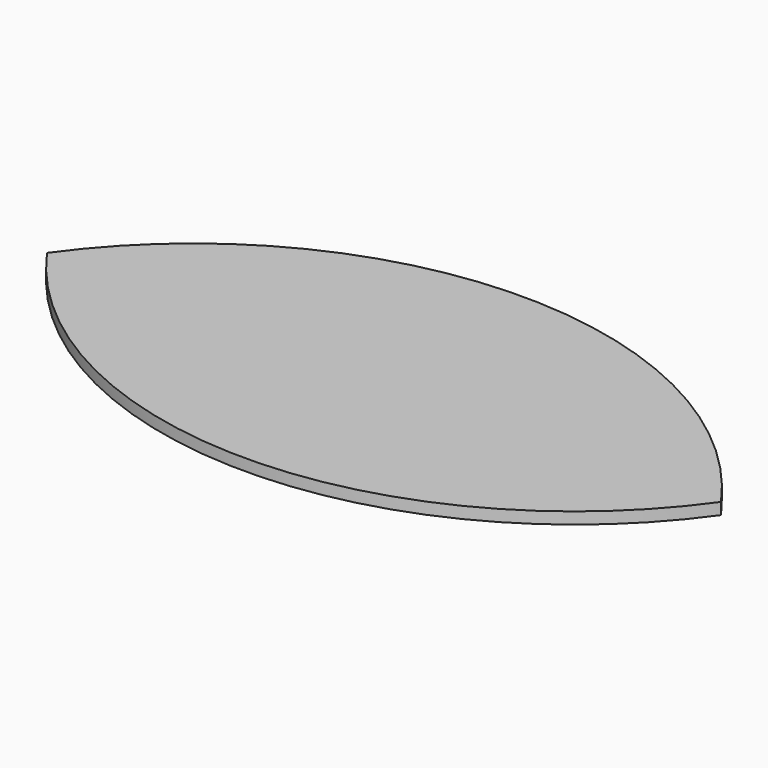
from build123d import *

# Parameters (mm, degrees)
CYLINDER068_R     = 71
CYLINDER068_DEPTH = 2
CYLINDER069_R     = 71
CYLINDER069_DEPTH = 2


with BuildPart() as cylinder:
    # Cylinder068 → Cylinder068 (new body)
    with BuildSketch(Plane(origin=(105, 148, 35), x_dir=(1, 0, 0), z_dir=(0, 0, 1))):
        Circle(CYLINDER068_R)
    extrude(amount=CYLINDER068_DEPTH)


with BuildPart() as obj1:
    # Cylinder069 → Cylinder069 (new body)
    with BuildSketch(Plane(origin=(105, 66, 35), x_dir=(1, 0, 0), z_dir=(0, 0, 1))):
        Circle(CYLINDER069_R)
    extrude(amount=CYLINDER069_DEPTH)

    # Common001: intersect Cylinder
    add(cylinder.part, mode=Mode.INTERSECT)


solid = obj1.part
